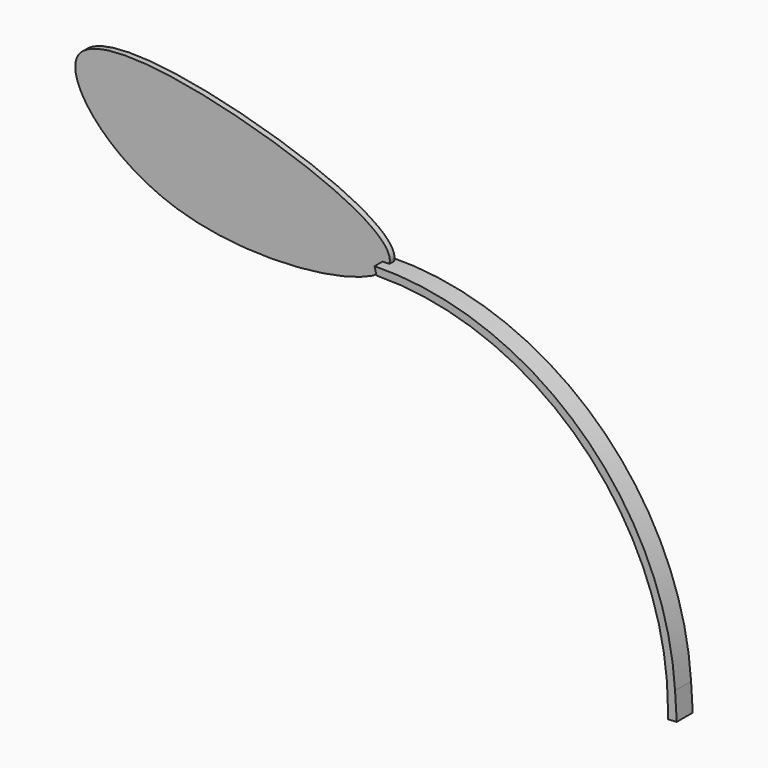
from build123d import *

# Parameters (mm, degrees)
F1_DEPTH = 2.54
F3_DEPTH = 4.318


with BuildPart() as f1:
    # F0 (on Front) → F1 (new body)
    with BuildSketch(Plane.XZ):
        with BuildLine():
            add(Edge.make_bspline(
                [(0, 0), (3.2288205225, 11.6959711466), (-70.9324180406, 41.5809971794), (-157.7916749632, 47.1308104661), (-98.9883162493, -26.9361971593), (-3.4859616414, -12.6274305097), (0, 0)],
                knots=[0, 0, 0, 0, 0.2596448322, 0.4928606883, 0.7196772261, 1, 1, 1, 1], degree=3))
        make_face()
    extrude(amount=F1_DEPTH)

    # F2 (on face) → F3 (join, symmetric)
    with BuildSketch(Plane.XZ.offset(2.54)):
        with BuildLine():
            ThreePointArc((126.7541571575, -119.0680755359), (85.8951270662, -33.4194823778), (-2.9208627529, 0))
            Line((-2.9208627529, 0), (-2.109292065, -3.3016612133))
            ThreePointArc((-2.109292065, -3.3016612133), (86.7079451621, -38.7669130987), (123.6827332993, -126.9664072138))
            Line((123.6827332993, -126.9664072138), (123.6827332993, -130.9845326543))
            Line((123.6827332993, -130.9845326543), (127.4819463096, -130.7477952948))
            Line((127.4819463096, -130.7477952948), (126.7541571575, -119.0680755359))
        make_face()
    extrude(amount=F3_DEPTH, both=True)


solid = f1.part
